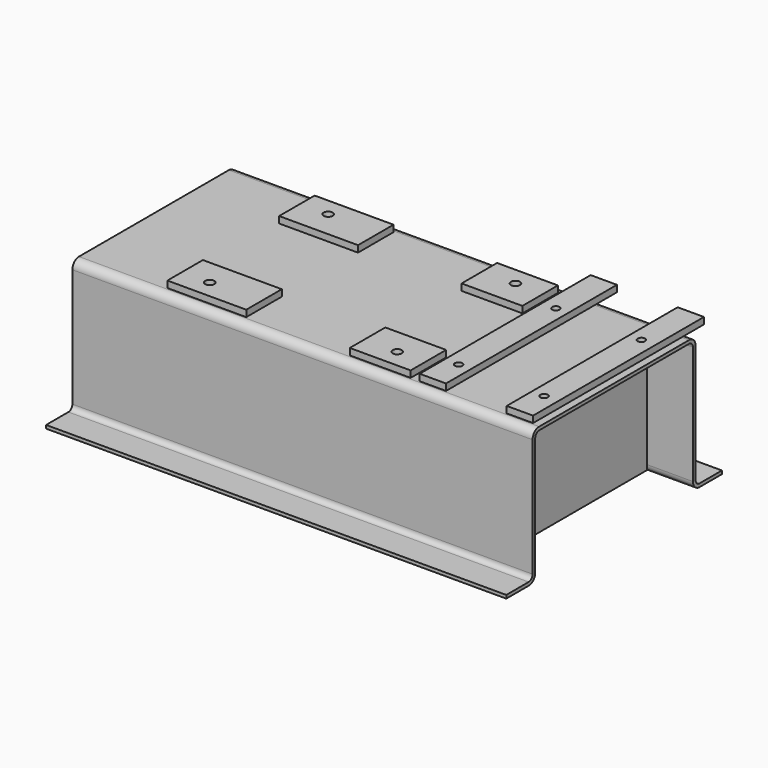
from build123d import *

# Parameters (mm, degrees)
F1_DEPTH = 889
F2_W     = 234.95
F2_H     = 171.45
F2_R     = 17.4625
F2_W_2   = 304.8
F3_DEPTH = 25.4
F4_W     = 101.6
F4_H     = 825.5
F4_R     = 14.2875
F5_DEPTH = 25.4
F8_DEPTH = 12.7


with BuildPart() as f1:
    # F0 (on Right) → F1 (new body, symmetric)
    with BuildSketch(Plane.YZ):
        with BuildLine():
            Line((0, 260.35), (-361.95, 260.35))
            ThreePointArc((-361.95, 260.35), (-384.4006403027, 251.0506403027), (-393.7, 228.6))
            Line((-393.7, 228.6), (-393.7, -228.6))
            ThreePointArc((-393.7, -228.6), (-399.2796158184, -242.0703841816), (-412.75, -247.65))
            Line((-412.75, -247.65), (-520.7, -247.65))
            Line((-520.7, -247.65), (-520.7, -260.35))
            Line((-520.7, -260.35), (-412.75, -260.35))
            ThreePointArc((-412.75, -260.35), (-390.2993596973, -251.0506403027), (-381, -228.6))
            Line((-381, -228.6), (-381, 228.6))
            ThreePointArc((-381, 228.6), (-375.4203841816, 242.0703841816), (-361.95, 247.65))
            Line((-361.95, 247.65), (0, 247.65))
            Line((0, 247.65), (361.95, 247.65))
            ThreePointArc((361.95, 247.65), (375.4203841816, 242.0703841816), (381, 228.6))
            Line((381, 228.6), (381, -228.6))
            ThreePointArc((381, -228.6), (390.2993596973, -251.0506403027), (412.75, -260.35))
            Line((412.75, -260.35), (520.7, -260.35))
            Line((520.7, -260.35), (520.7, -247.65))
            Line((520.7, -247.65), (412.75, -247.65))
            ThreePointArc((412.75, -247.65), (399.2796158184, -242.0703841816), (393.7, -228.6))
            Line((393.7, -228.6), (393.7, 228.6))
            ThreePointArc((393.7, 228.6), (384.4006403027, 251.0506403027), (361.95, 260.35))
            Line((361.95, 260.35), (0, 260.35))
        make_face()
    extrude(amount=F1_DEPTH, both=True)

    # F2 (on face) → F3 (join)
    with BuildSketch(Plane.XY.offset(260.35)):
        with Locations((269.875, -269.875)):
            Rectangle(F2_W, F2_H)
        with Locations((279.4, -285.75)):
            Circle(F2_R, mode=Mode.SUBTRACT)
        with Locations((-400.05, -269.875)):
            Rectangle(F2_W_2, F2_H)
        with Locations((-444.5, -285.75)):
            Circle(F2_R, mode=Mode.SUBTRACT)
        with Locations((-400.05, 269.875)):
            Rectangle(F2_W_2, F2_H)
        with Locations((-444.5, 285.75)):
            Circle(F2_R, mode=Mode.SUBTRACT)
        with Locations((269.875, 269.875)):
            Rectangle(F2_W, F2_H)
        with Locations((279.4, 285.75)):
            Circle(F2_R, mode=Mode.SUBTRACT)
    extrude(amount=F3_DEPTH)

    # F4 (on face) → F5 (join)
    with BuildSketch(Plane.XY.offset(260.35)):
        with Locations((473.202, 57.15)):
            Rectangle(F4_W, F4_H)
        with Locations((476.25, -234.95)):
            Circle(F4_R, mode=Mode.SUBTRACT)
        with Locations((476.25, 234.95)):
            Circle(F4_R, mode=Mode.SUBTRACT)
        Polygon((758.698, -355.6), (860.298, -355.6), (860.298, 361.95), (860.298, 469.9), (758.698, 469.9), (758.698, 361.95), align=None)
        with Locations((806.45, -234.95)):
            Circle(F4_R, mode=Mode.SUBTRACT)
        with Locations((806.45, 234.95)):
            Circle(F4_R, mode=Mode.SUBTRACT)
    extrude(amount=F5_DEPTH)

    # F7 (on offset) → F8 (join)
    with BuildSketch(Plane.YZ.offset(711.2)):
        Polygon((-361.95, 247.65), (-381, 228.6), (-381, -247.65), (381, -247.65), (381, 228.6), (361.95, 247.65), align=None)
    extrude(amount=-F8_DEPTH)


solid = f1.part
